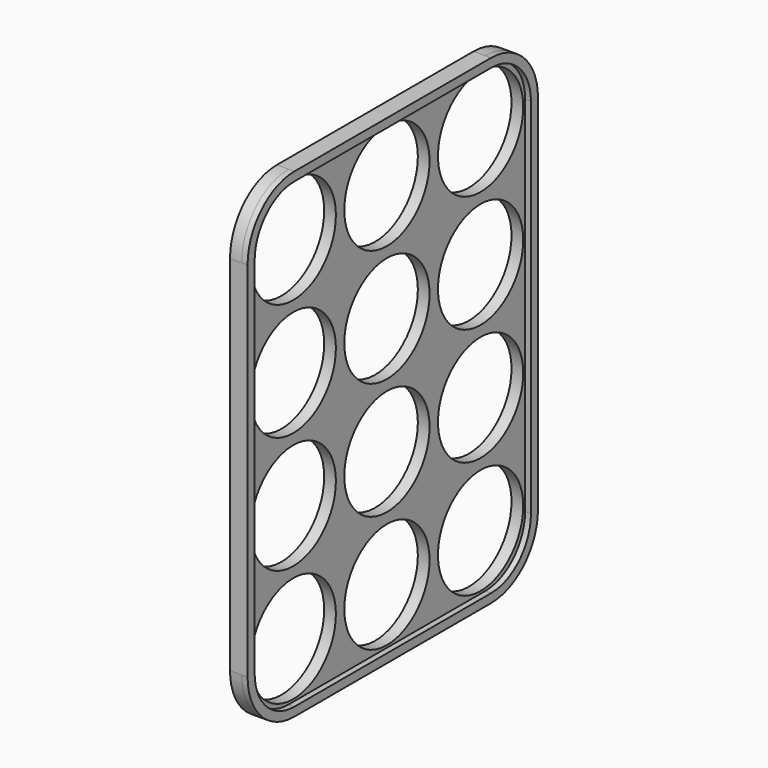
from build123d import *

# Parameters (mm, degrees)
F0_W     = 62
F0_H     = 82
F0_R     = 9.1
F1_DEPTH = 2
F2_R     = 10
F3_R     = 10
F4_R     = 10
F5_R     = 10
F7_DEPTH = 1


with BuildPart() as f1:
    # F0 (on Right) → F1 (new body)
    with BuildSketch(Plane.YZ):
        with Locations((0, -10)):
            Rectangle(F0_W, F0_H)
        with Locations((-20, -40)):
            Circle(F0_R, mode=Mode.SUBTRACT)
        with Locations((-20, -20)):
            Circle(F0_R, mode=Mode.SUBTRACT)
        with Locations((0, -40)):
            Circle(F0_R, mode=Mode.SUBTRACT)
        with Locations((20, -40)):
            Circle(F0_R, mode=Mode.SUBTRACT)
        with Locations((0, -20)):
            Circle(F0_R, mode=Mode.SUBTRACT)
        with Locations((20, -20)):
            Circle(F0_R, mode=Mode.SUBTRACT)
        with Locations((-20, 0)):
            Circle(F0_R, mode=Mode.SUBTRACT)
        with Locations((-20, 20)):
            Circle(F0_R, mode=Mode.SUBTRACT)
        Circle(F0_R, mode=Mode.SUBTRACT)
        with Locations((20, 0)):
            Circle(F0_R, mode=Mode.SUBTRACT)
        with Locations((0, 20)):
            Circle(F0_R, mode=Mode.SUBTRACT)
        with Locations((20, 20)):
            Circle(F0_R, mode=Mode.SUBTRACT)
    extrude(amount=F1_DEPTH)

    # F2
    f2_edges = [f1.edges().sort_by_distance(p)[0] for p in [
        (1, 31, 31),
    ]]
    fillet(f2_edges, radius=F2_R)

    # F3
    f3_edges = [f1.edges().sort_by_distance(p)[0] for p in [
        (1, -31, 31),
    ]]
    fillet(f3_edges, radius=F3_R)

    # F4
    f4_edges = [f1.edges().sort_by_distance(p)[0] for p in [
        (1, 31, -51),
    ]]
    fillet(f4_edges, radius=F4_R)

    # F5
    f5_edges = [f1.edges().sort_by_distance(p)[0] for p in [
        (1, -31, -51),
    ]]
    fillet(f5_edges, radius=F5_R)

    # F6 (on face) → F7 (join)
    with BuildSketch(Plane.YZ.offset(2)):
        with BuildLine():
            ThreePointArc((-31, -41), (-28.071068, -48.071068), (-21, -51))
            Line((-21, -51), (21, -51))
            ThreePointArc((21, -51), (28.071068, -48.071068), (31, -41))
            Line((31, -41), (31, 21))
            ThreePointArc((31, 21), (28.071068, 28.071068), (21, 31))
            Line((21, 31), (-21, 31))
            ThreePointArc((-21, 31), (-28.071068, 28.071068), (-31, 21))
            Line((-31, 21), (-31, -41))
        make_face()
        with BuildLine():
            ThreePointArc((-29.5, 21), (-27.010408, 27.010408), (-21, 29.5))
            Line((-21, 29.5), (21, 29.5))
            ThreePointArc((21, 29.5), (27.010408, 27.010408), (29.5, 21))
            Line((29.5, 21), (29.5, -41))
            ThreePointArc((29.5, -41), (27.010408, -47.010408), (21, -49.5))
            Line((21, -49.5), (-21, -49.5))
            ThreePointArc((-21, -49.5), (-27.010408, -47.010408), (-29.5, -41))
            Line((-29.5, -41), (-29.5, 21))
        make_face(mode=Mode.SUBTRACT)
    extrude(amount=F7_DEPTH)


solid = f1.part
